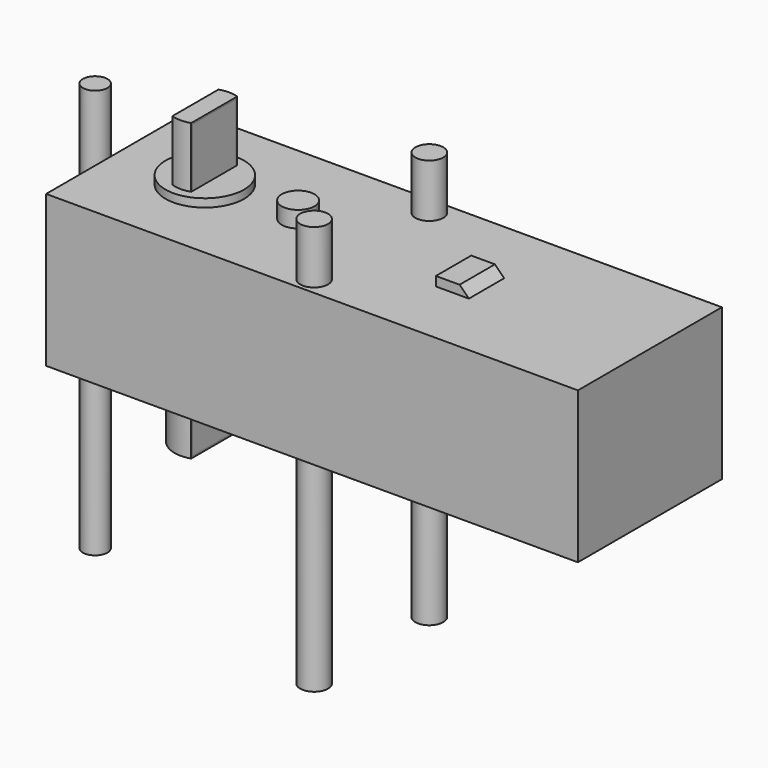
from build123d import *

# Parameters (mm, degrees)
CYLINDER001_R     = 1.5
CYLINDER001_DEPTH = 50
CYLINDER004_R     = 1.7
CYLINDER004_DEPTH = 50
CYLINDER005_R     = 1.7
CYLINDER005_DEPTH = 50
CYLINDER007_R     = 2
CYLINDER007_DEPTH = 10
CYLINDER009_R     = 4.8
CYLINDER009_DEPTH = 22.5
BOX005_W          = 10
BOX005_H          = 10
BOX005_DEPTH      = 40
BOX004_W          = 10
BOX004_H          = 10
BOX004_DEPTH      = 40
CYLINDER011_R     = 3.7
CYLINDER011_DEPTH = 36.1
BOX009_W          = 4.4
BOX009_H          = 5.4
BOX009_DEPTH      = 2
CHAMFER003_SIZE   = 1.5
BOX008_W          = 4.4
BOX008_H          = 5.4
BOX008_DEPTH      = 2
CHAMFER002_SIZE   = 1.5
BOX007_W          = 4.3
BOX007_H          = 5
BOX007_DEPTH      = 2
CHAMFER001_SIZE   = 1.5
BOX006_W          = 4.3
BOX006_H          = 5
BOX006_DEPTH      = 2
CHAMFER_SIZE      = 1.5
BOX003_W          = 10
BOX003_H          = 10
BOX003_DEPTH      = 40
BOX002_W          = 10
BOX002_H          = 10
BOX002_DEPTH      = 40
CYLINDER010_R     = 3.5
CYLINDER010_DEPTH = 35.7
CYLINDER008_R     = 4.6
CYLINDER008_DEPTH = 22
CYLINDER006_R     = 1.85
CYLINDER006_DEPTH = 10
CYLINDER003_R     = 1.7
CYLINDER003_DEPTH = 50
CYLINDER002_R     = 1.7
CYLINDER002_DEPTH = 50
CYLINDER_R        = 1.5
CYLINDER_DEPTH    = 10
BOX001_W          = 10
BOX001_H          = 6
BOX001_DEPTH      = 3
FILLET_R          = 2.5
FILLET001_R       = 2.5
BOX_W             = 65
BOX_H             = 22
BOX_DEPTH         = 18.5


with BuildPart() as endhole:
    # Cylinder001 → Cylinder001 (new body)
    with BuildSketch(Plane(origin=(-13.4, 0, -25), x_dir=(1, 0, 0), z_dir=(0, 0, 1))):
        Circle(CYLINDER001_R)
    extrude(amount=CYLINDER001_DEPTH)


with BuildPart() as cylinder004:
    # Cylinder004 → Cylinder004 (new body)
    with BuildSketch(Plane(origin=(20.4, 8.8, -25), x_dir=(1, 0, 0), z_dir=(0, 0, 1))):
        Circle(CYLINDER004_R)
    extrude(amount=CYLINDER004_DEPTH)


with BuildPart() as cylinder005:
    # Cylinder005 → Cylinder005 (new body)
    with BuildSketch(Plane(origin=(20.4, -8.8, -25), x_dir=(1, 0, 0), z_dir=(0, 0, 1))):
        Circle(CYLINDER005_R)
    extrude(amount=CYLINDER005_DEPTH)


with BuildPart() as central_bump:
    # Cylinder007 → Cylinder007 (new body)
    with BuildSketch(Plane(origin=(11.4, 0, 10.5), x_dir=(1, 0, 0), z_dir=(0, 0, 1))):
        Circle(CYLINDER007_R)
    extrude(amount=CYLINDER007_DEPTH)


with BuildPart() as motor_boss:
    # Cylinder009 → Cylinder009 (new body)
    with BuildSketch(Plane.XY.offset(-3)):
        Circle(CYLINDER009_R)
    extrude(amount=CYLINDER009_DEPTH)


with BuildPart() as cube005:
    # Box005 → Box005 (new body)
    with BuildSketch(Plane(origin=(-0.55, -5, 5), x_dir=(1, 0, 0), z_dir=(0, 0, 1))):
        with Locations((5, 5)):
            Rectangle(BOX005_W, BOX005_H)
    extrude(amount=BOX005_DEPTH)


with BuildPart() as cube004:
    # Box004 → Box004 (new body)
    with BuildSketch(Plane(origin=(11.75, -5, -11), x_dir=(1, 0, 0), z_dir=(0, 0, 1))):
        with Locations((5, 5)):
            Rectangle(BOX004_W, BOX004_H)
    extrude(amount=BOX004_DEPTH)


with BuildPart() as drive:
    # Cylinder011 → Cylinder011 (new body)
    with BuildSketch(Plane(origin=(10.6, 0, -9.2), x_dir=(1, 0, 0), z_dir=(0, 0, 1))):
        Circle(CYLINDER011_R)
    extrude(amount=CYLINDER011_DEPTH)

    # Cut005: cut Cube004
    add(cube004.part, mode=Mode.SUBTRACT)

    # Cut006: cut Cube005
    add(cube005.part, mode=Mode.SUBTRACT)


with BuildPart() as drive_1:
    # Cut006 placement: moved
    add(drive.part.moved(Location((-10.6, 0, 0))))


with BuildPart() as chamfer003:
    # Box009 → Box009 (new body)
    with BuildSketch(Plane(origin=(41, -2.7, 17.63), x_dir=(1, 0, 0), z_dir=(0, 0, 1))):
        with Locations((2.2, 2.7)):
            Rectangle(BOX009_W, BOX009_H)
    extrude(amount=BOX009_DEPTH)

    # Chamfer003
    chamfer003_edges = [chamfer003.edges().sort_by_distance(p)[0] for p in [
        (45.4, 0, 19.63),
    ]]
    chamfer(chamfer003_edges, length=CHAMFER003_SIZE)


with BuildPart() as part_mirroring001:
    # Part__Mirroring001: instance of Chamfer003
    add(chamfer003.part.mirror(Plane(origin=(0, 0, 0), x_dir=(0, 1, 0), z_dir=(0, 0, 1))))


with BuildPart() as part_mirroring001_1:
    # Part__Mirroring001 placement: moved
    add(part_mirroring001.part.moved(Location((0, 0, 18.4))))


with BuildPart() as hook_bumps:
    # Box008 → Box008 (new body)
    with BuildSketch(Plane(origin=(41, -2.7, 17.63), x_dir=(1, 0, 0), z_dir=(0, 0, 1))):
        with Locations((2.2, 2.7)):
            Rectangle(BOX008_W, BOX008_H)
    extrude(amount=BOX008_DEPTH)

    # Chamfer002
    chamfer002_edges = [hook_bumps.edges().sort_by_distance(p)[0] for p in [
        (45.4, 0, 19.63),
    ]]
    chamfer(chamfer002_edges, length=CHAMFER002_SIZE)

    # Fusion005: union Part__Mirroring001
    add(part_mirroring001_1.part)


with BuildPart() as hook_bumps_1:
    # Fusion005 placement: moved
    add(hook_bumps.part.moved(Location((-10.6, 0, 0))))


with BuildPart() as chamfer001:
    # Box007 → Box007 (new body)
    with BuildSketch(Plane(origin=(41, -2.5, 17.53), x_dir=(1, 0, 0), z_dir=(0, 0, 1))):
        with Locations((2.15, 2.5)):
            Rectangle(BOX007_W, BOX007_H)
    extrude(amount=BOX007_DEPTH)

    # Chamfer001
    chamfer001_edges = [chamfer001.edges().sort_by_distance(p)[0] for p in [
        (45.3, 0, 19.53),
    ]]
    chamfer(chamfer001_edges, length=CHAMFER001_SIZE)


with BuildPart() as part_mirroring:
    # Part__Mirroring: instance of Chamfer001
    add(chamfer001.part.mirror(Plane(origin=(0, 0, 0), x_dir=(0, 1, 0), z_dir=(0, 0, 1))))


with BuildPart() as part_mirroring_1:
    # Part__Mirroring placement: moved
    add(part_mirroring.part.moved(Location((0, 0, 18.4))))


with BuildPart() as fusion004:
    # Box006 → Box006 (new body)
    with BuildSketch(Plane(origin=(41, -2.5, 17.53), x_dir=(1, 0, 0), z_dir=(0, 0, 1))):
        with Locations((2.15, 2.5)):
            Rectangle(BOX006_W, BOX006_H)
    extrude(amount=BOX006_DEPTH)

    # Chamfer
    chamfer_edges = [fusion004.edges().sort_by_distance(p)[0] for p in [
        (45.3, 0, 19.53),
    ]]
    chamfer(chamfer_edges, length=CHAMFER_SIZE)

    # Fusion004: union Part__Mirroring
    add(part_mirroring_1.part)


with BuildPart() as cube003:
    # Box003 → Box003 (new body)
    with BuildSketch(Plane(origin=(-0.55, -5, 5), x_dir=(1, 0, 0), z_dir=(0, 0, 1))):
        with Locations((5, 5)):
            Rectangle(BOX003_W, BOX003_H)
    extrude(amount=BOX003_DEPTH)


with BuildPart() as cube002:
    # Box002 → Box002 (new body)
    with BuildSketch(Plane(origin=(11.75, -5, -11), x_dir=(1, 0, 0), z_dir=(0, 0, 1))):
        with Locations((5, 5)):
            Rectangle(BOX002_W, BOX002_H)
    extrude(amount=BOX002_DEPTH)


with BuildPart() as cut004:
    # Cylinder010 → Cylinder010 (new body)
    with BuildSketch(Plane(origin=(10.6, 0, -9), x_dir=(1, 0, 0), z_dir=(0, 0, 1))):
        Circle(CYLINDER010_R)
    extrude(amount=CYLINDER010_DEPTH)

    # Cut003: cut Cube002
    add(cube002.part, mode=Mode.SUBTRACT)

    # Cut004: cut Cube003
    add(cube003.part, mode=Mode.SUBTRACT)


with BuildPart() as cylinder008:
    # Cylinder008 → Cylinder008 (new body)
    with BuildSketch(Plane(origin=(10.6, 0, -2.8), x_dir=(1, 0, 0), z_dir=(0, 0, 1))):
        Circle(CYLINDER008_R)
    extrude(amount=CYLINDER008_DEPTH)


with BuildPart() as cylinder003:
    # Cylinder006 → Cylinder006 (new body)
    with BuildSketch(Plane(origin=(22, 0, 10.2), x_dir=(1, 0, 0), z_dir=(0, 0, 1))):
        Circle(CYLINDER006_R)
    extrude(amount=CYLINDER006_DEPTH)


with BuildPart() as cylinder002:
    # Cylinder003 → Cylinder003 (new body)
    with BuildSketch(Plane(origin=(31, -8.8, -25), x_dir=(1, 0, 0), z_dir=(0, 0, 1))):
        Circle(CYLINDER003_R)
    extrude(amount=CYLINDER003_DEPTH)


with BuildPart() as cylinder001:
    # Cylinder002 → Cylinder002 (new body)
    with BuildSketch(Plane(origin=(31, 8.8, -25), x_dir=(1, 0, 0), z_dir=(0, 0, 1))):
        Circle(CYLINDER002_R)
    extrude(amount=CYLINDER002_DEPTH)


with BuildPart() as cylinder:
    # Cylinder → Cylinder (new body)
    with BuildSketch(Plane(origin=(-2.8, 0, 3), x_dir=(1, 0, 0), z_dir=(0, 0, 1))):
        Circle(CYLINDER_R)
    extrude(amount=CYLINDER_DEPTH)


with BuildPart() as fillet001:
    # Box001 → Box001 (new body)
    with BuildSketch(Plane(origin=(-5, -3, 7), x_dir=(1, 0, 0), z_dir=(0, 0, 1))):
        with Locations((5, 3)):
            Rectangle(BOX001_W, BOX001_H)
    extrude(amount=BOX001_DEPTH)

    # Cut: cut Cylinder
    add(cylinder.part, mode=Mode.SUBTRACT)

    # Fillet
    fillet_edges = [fillet001.edges().sort_by_distance(p)[0] for p in [
        (-5, -3, 8.5),
    ]]
    fillet(fillet_edges, radius=FILLET_R)

    # Fillet001
    fillet001_edges = [fillet001.edges().sort_by_distance(p)[0] for p in [
        (-5, 3, 8.5),
    ]]
    fillet(fillet001_edges, radius=FILLET001_R)


with BuildPart() as fusion006:
    # Box → Box (new body)
    with BuildSketch(Plane(origin=(0, -11, 0), x_dir=(1, 0, 0), z_dir=(0, 0, 1))):
        with Locations((32.5, 11)):
            Rectangle(BOX_W, BOX_H)
    extrude(amount=BOX_DEPTH)

    # Fusion: union Fillet001
    add(fillet001.part)

    # Cut001: cut Cylinder001
    add(cylinder001.part, mode=Mode.SUBTRACT)

    # Cut002: cut Cylinder002
    add(cylinder002.part, mode=Mode.SUBTRACT)

    # Fusion001: union Cylinder003
    add(cylinder003.part)

    # Fusion002: union Cylinder008
    add(cylinder008.part)

    # Fusion003: union Cut004
    add(cut004.part)

    # Fusion006: union Fusion004
    add(fusion004.part)


with BuildPart() as fusion006_1:
    # Fusion006 placement: moved
    add(fusion006.part.moved(Location((-10.6, 0, 0))))


solid = Compound([endhole.part, cylinder004.part, cylinder005.part, central_bump.part, motor_boss.part, drive_1.part, hook_bumps_1.part, fusion006_1.part])
